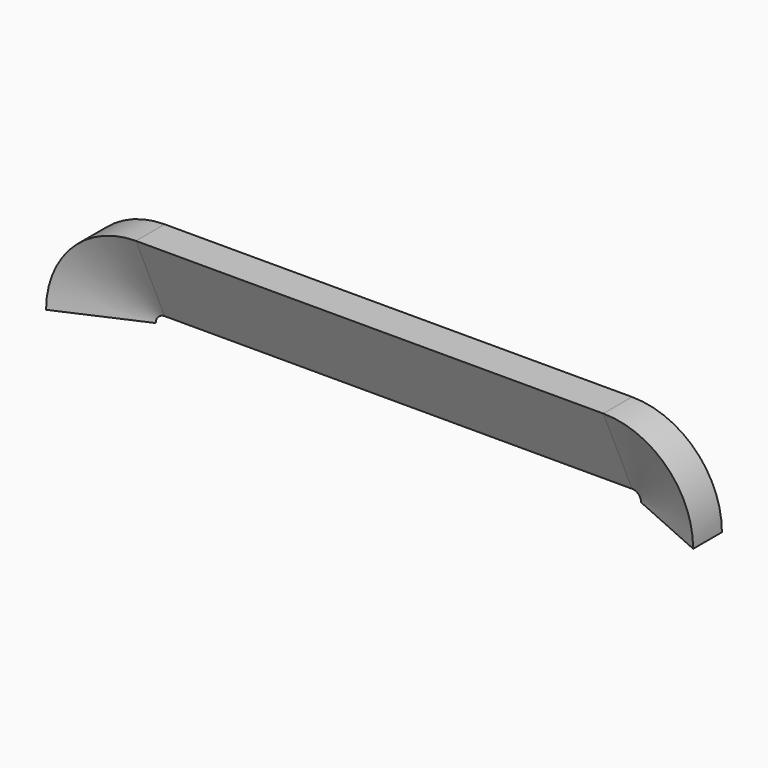
from build123d import *

# Parameters (mm, degrees)
F2_ANGLE = 90
F3_DEPTH = 65


with BuildPart() as f2:
    # F1 (on Top) → F2 (revolve)
    with BuildSketch(Plane.XY):
        Polygon((90, -10), (90, 0), (67.5, 0), align=None)
    revolve(axis=Axis((65, 13.2645983249, 0), (0, -1, 0)), revolution_arc=F2_ANGLE)

    # F3 (add): a face of the model
    f3_faces = [f2.faces().sort_by_distance(p)[0] for p in [
        (65, -3.3333333333, 17.5),
    ]]
    extrude(f3_faces, amount=F3_DEPTH)

    # F4: F2 across plane


with BuildPart() as f2_1:
    add(f2.part)
    add(f2.part.mirror(Plane.YZ))


solid = f2_1.part
